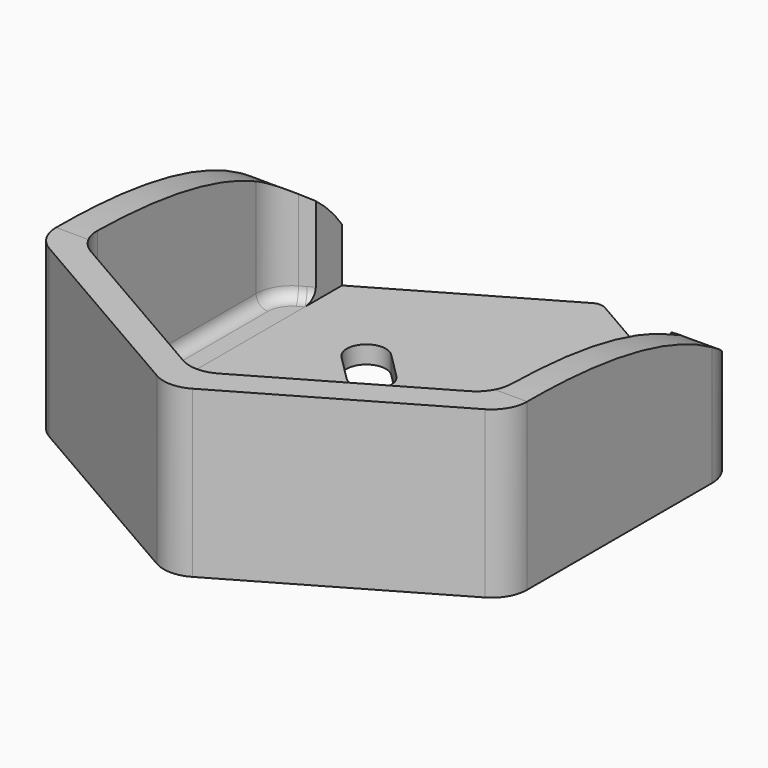
from build123d import *

# Parameters (mm, degrees)
F1_DEPTH = 1.5
F2_DEPTH = 14
F4_W     = 30
F4_H     = 17.707149
F5_DEPTH = 26
F6_R     = 3
F7_R     = 1
F9_DEPTH = 21.8


with BuildPart() as f1:
    # F0 (on Top) → F1 (new body)
    with BuildSketch(Plane.XY):
        Polygon((0, -20.207259), (17.5, -10.10363), (17.5, 10.10363), (0, 20.207259), (-17.5, 10.10363), (-17.5, -10.10363), align=None)
        with BuildLine():
            ThreePointArc((-6.29325, -8.626703), (-8.626703, -8.626703), (-8.626703, -6.29325))
            Line((-8.626703, -6.29325), (-6.434672, -4.101219))
            ThreePointArc((-6.434672, -4.101219), (-4.101219, -4.101219), (-4.101219, -6.434672))
            Line((-4.101219, -6.434672), (-6.29325, -8.626703))
        make_face(mode=Mode.SUBTRACT)
        with BuildLine():
            ThreePointArc((8.626703, -6.29325), (8.626703, -8.626703), (6.29325, -8.626703))
            Line((6.29325, -8.626703), (4.101219, -6.434672))
            ThreePointArc((4.101219, -6.434672), (4.101219, -4.101219), (6.434672, -4.101219))
            Line((6.434672, -4.101219), (8.626703, -6.29325))
        make_face(mode=Mode.SUBTRACT)
        with BuildLine():
            ThreePointArc((-8.626703, 6.29325), (-8.626703, 8.626703), (-6.29325, 8.626703))
            Line((-6.29325, 8.626703), (-4.101219, 6.434672))
            ThreePointArc((-4.101219, 6.434672), (-4.101219, 4.101219), (-6.434672, 4.101219))
            Line((-6.434672, 4.101219), (-8.626703, 6.29325))
        make_face(mode=Mode.SUBTRACT)
        with BuildLine():
            Line((4.101219, 6.434672), (6.29325, 8.626703))
            ThreePointArc((6.29325, 8.626703), (8.626703, 8.626703), (8.626703, 6.29325))
            Line((8.626703, 6.29325), (6.434672, 4.101219))
            ThreePointArc((6.434672, 4.101219), (4.101219, 4.101219), (4.101219, 6.434672))
        make_face(mode=Mode.SUBTRACT)
    extrude(amount=F1_DEPTH)

    # F0 (on Top) → F2 (join)
    with BuildSketch(Plane.XY):
        Polygon((-19.9, 11.48927), (-19.9, -11.48927), (0, -22.978541), (19.9, -11.48927), (19.9, 11.48927), (0, 22.978541), align=None)
        Polygon((17.5, 10.10363), (17.5, -10.10363), (0, -20.207259), (-17.5, -10.10363), (-17.5, 10.10363), (0, 20.207259), align=None, mode=Mode.SUBTRACT)
    extrude(amount=F2_DEPTH)

    # F4 (on offset) → F5 (cut)
    with BuildSketch(Plane.XZ.offset(-25)):
        with Locations((0, 10.353574)):
            Rectangle(F4_W, F4_H)
    extrude(amount=F5_DEPTH, mode=Mode.SUBTRACT)

    # F6
    f6_edges = [f1.edges().sort_by_distance(p)[0] for p in [
        (19.9, 11.48927, 7),
        (-19.9, 11.48927, 7),
        (-19.9, -11.48927, 7),
        (0, -22.978541, 7),
        (19.9, -11.48927, 7),
        (17.5, 10.10363, 7.75),
        (17.5, -10.10363, 7.75),
        (0, -20.207259, 7.75),
        (-17.5, -10.10363, 7.75),
        (-17.5, 10.10363, 7.75),
    ]]
    fillet(f6_edges, radius=F6_R)

    # F7
    f7_edges = [f1.edges().sort_by_distance(p)[0] for p in [
        (-15.5, 11.25833, 1.5),
        (0, 22.978541, 0.75),
    ]]
    fillet(f7_edges, radius=F7_R)

    # F8 (on Right) → F9 (cut, symmetric)
    with BuildSketch(Plane.YZ):
        with BuildLine():
            Line((14.684951, 14), (-9.75722, 14))
            add(Edge.make_bspline(
                [(-9.75722, 14), (-1.043614, 14), (10.101545, 12.707566), (14.684951, 5.5)],
                knots=[0, 0, 0, 0, 25.877977, 25.877977, 25.877977, 25.877977], degree=3))
            Line((14.684951, 5.5), (14.684951, 14))
        make_face()
    extrude(amount=F9_DEPTH, both=True, mode=Mode.SUBTRACT)


solid = f1.part
